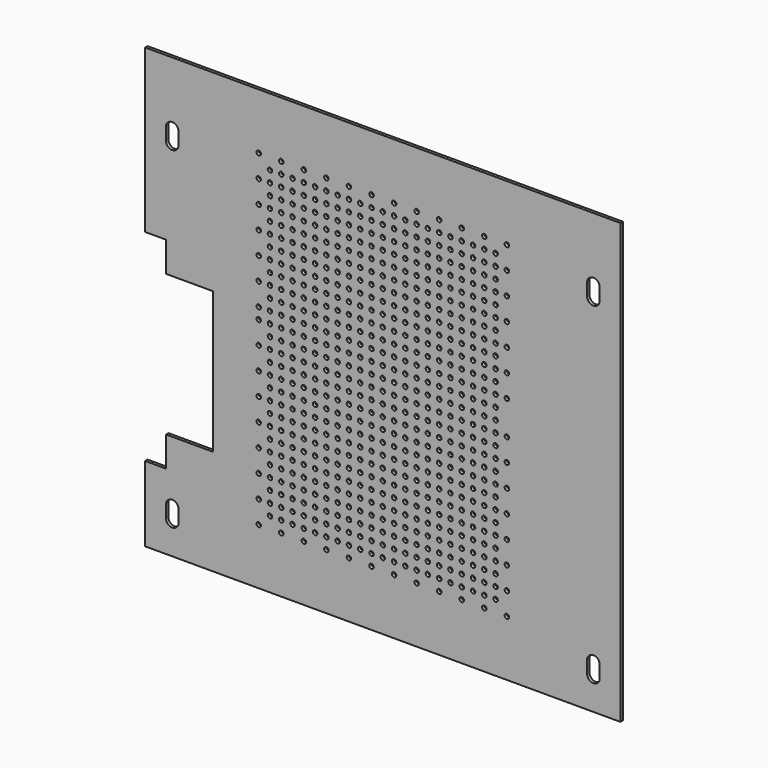
from build123d import *

# Parameters (mm, degrees)
F1_DEPTH = 2
F3_DEPTH = 2.001
F4_R     = 1.5
F5_DEPTH = 2.001


with BuildPart() as f1:
    # F0 (on Front) → F1 (new body)
    with BuildSketch(Plane.XZ):
        Polygon((158, -146), (158, 146), (-158, 146), (-158, 38), (-144, 38), (-144, 18), (-113, 18), (-113, -76), (-144, -76), (-144, -96), (-158, -96), (-158, -146), align=None)
    extrude(amount=F1_DEPTH)

    # F2 (on face) → F3 (cut, through all)
    with BuildSketch(Plane.XZ.offset(2)):
        with BuildLine():
            ThreePointArc((-135.8, 104), (-140, 108.2), (-144.2, 104))
            Line((-144.2, 104), (-144.2, 100))
            Line((-144.2, 100), (-144.2, 96))
            ThreePointArc((-144.2, 96), (-140, 91.8), (-135.8, 96))
            Line((-135.8, 96), (-135.8, 100))
            Line((-135.8, 100), (-135.8, 104))
        make_face()
        with BuildLine():
            Line((144.2, 96), (144.2, 100))
            Line((144.2, 100), (144.2, 104))
            ThreePointArc((144.2, 104), (140, 108.2), (135.8, 104))
            Line((135.8, 104), (135.8, 100))
            Line((135.8, 100), (135.8, 96))
            ThreePointArc((135.8, 96), (140, 91.8), (144.2, 96))
        make_face()
        with BuildLine():
            ThreePointArc((-144.2, -125), (-140, -129.2), (-135.8, -125))
            Line((-135.8, -125), (-135.8, -117))
            ThreePointArc((-135.8, -117), (-140, -112.8), (-144.2, -117))
            Line((-144.2, -117), (-144.2, -125))
        make_face()
        with BuildLine():
            Line((135.8, -117), (135.8, -125))
            ThreePointArc((135.8, -125), (140, -129.2), (144.2, -125))
            Line((144.2, -125), (144.2, -117))
            ThreePointArc((144.2, -117), (140, -112.8), (135.8, -117))
        make_face()
    extrude(amount=-F3_DEPTH, mode=Mode.SUBTRACT)

    # F4 (on face) → F5 (cut, through all)
    with BuildSketch(Plane.XZ.offset(2)):
        with BuildLine():
            ThreePointArc((0, 5.25), (-1.5, 3.75), (0, 2.25))
            Line((0, 2.25), (0, 5.25))
        make_face()
        with BuildLine():
            ThreePointArc((0, 20.25), (-1.5, 18.75), (0, 17.25))
            Line((0, 17.25), (0, 20.25))
        make_face()
        with BuildLine():
            Line((0, 20.25), (0, 17.25))
            ThreePointArc((0, 17.25), (1.06066, 17.68934), (1.5, 18.75))
            ThreePointArc((1.5, 18.75), (1.06066, 19.81066), (0, 20.25))
        make_face()
        with BuildLine():
            ThreePointArc((0, 12.75), (-1.5, 11.25), (0, 9.75))
            Line((0, 9.75), (0, 12.75))
        make_face()
        with BuildLine():
            Line((0, 12.75), (0, 9.75))
            ThreePointArc((0, 9.75), (1.06066, 10.18934), (1.5, 11.25))
            ThreePointArc((1.5, 11.25), (1.06066, 12.31066), (0, 12.75))
        make_face()
        with BuildLine():
            Line((0, 5.25), (0, 2.25))
            ThreePointArc((0, 2.25), (1.06066, 2.68934), (1.5, 3.75))
            ThreePointArc((1.5, 3.75), (1.06066, 4.81066), (0, 5.25))
        make_face()
        with BuildLine():
            ThreePointArc((0, 24.75), (1.06066, 25.18934), (1.5, 26.25))
            ThreePointArc((1.5, 26.25), (1.06066, 27.31066), (0, 27.75))
            Line((0, 27.75), (0, 24.75))
        make_face()
        with BuildLine():
            Line((0, 24.75), (0, 27.75))
            ThreePointArc((0, 27.75), (-1.5, 26.25), (0, 24.75))
        make_face()
        with BuildLine():
            ThreePointArc((0, 32.25), (1.06066, 32.68934), (1.5, 33.75))
            ThreePointArc((1.5, 33.75), (-1.06066, 34.81066), (0, 32.25))
        make_face()
        with BuildLine():
            Line((0, 42.75), (0, 39.75))
            ThreePointArc((0, 39.75), (1.06066, 40.18934), (1.5, 41.25))
            ThreePointArc((1.5, 41.25), (1.06066, 42.31066), (0, 42.75))
        make_face()
        with BuildLine():
            ThreePointArc((0, 50.25), (-1.5, 48.75), (0, 47.25))
            Line((0, 47.25), (0, 50.25))
        make_face()
        with BuildLine():
            Line((0, 50.25), (0, 47.25))
            ThreePointArc((0, 47.25), (1.06066, 47.68934), (1.5, 48.75))
            ThreePointArc((1.5, 48.75), (1.06066, 49.81066), (0, 50.25))
        make_face()
        with BuildLine():
            ThreePointArc((0, 42.75), (-1.5, 41.25), (0, 39.75))
            Line((0, 39.75), (0, 42.75))
        make_face()
        with BuildLine():
            ThreePointArc((0, 54.75), (1.06066, 55.18934), (1.5, 56.25))
            ThreePointArc((1.5, 56.25), (1.06066, 57.31066), (0, 57.75))
            Line((0, 57.75), (0, 54.75))
        make_face()
        with BuildLine():
            Line((0, 54.75), (0, 57.75))
            ThreePointArc((0, 57.75), (-1.5, 56.25), (0, 54.75))
        make_face()
        with BuildLine():
            ThreePointArc((0, 62.25), (1.06066, 62.68934), (1.5, 63.75))
            ThreePointArc((1.5, 63.75), (1.06066, 64.81066), (0, 65.25))
            Line((0, 65.25), (0, 62.25))
        make_face()
        with BuildLine():
            Line((0, 62.25), (0, 65.25))
            ThreePointArc((0, 65.25), (-1.5, 63.75), (0, 62.25))
        make_face()
        with BuildLine():
            ThreePointArc((0, 69.75), (1.06066, 70.18934), (1.5, 71.25))
            ThreePointArc((1.5, 71.25), (1.06066, 72.31066), (0, 72.75))
            Line((0, 72.75), (0, 69.75))
        make_face()
        with BuildLine():
            Line((0, 69.75), (0, 72.75))
            ThreePointArc((0, 72.75), (-1.5, 71.25), (0, 69.75))
        make_face()
        with BuildLine():
            ThreePointArc((0, 77.25), (1.06066, 77.68934), (1.5, 78.75))
            ThreePointArc((1.5, 78.75), (1.06066, 79.81066), (0, 80.25))
            Line((0, 80.25), (0, 77.25))
        make_face()
        with BuildLine():
            Line((0, 77.25), (0, 80.25))
            ThreePointArc((0, 80.25), (-1.5, 78.75), (0, 77.25))
        make_face()
        with BuildLine():
            ThreePointArc((0, 84.75), (1.06066, 85.18934), (1.5, 86.25))
            ThreePointArc((1.5, 86.25), (1.06066, 87.31066), (0, 87.75))
            Line((0, 87.75), (0, 84.75))
        make_face()
        with BuildLine():
            Line((0, 84.75), (0, 87.75))
            ThreePointArc((0, 87.75), (-1.5, 86.25), (0, 84.75))
        make_face()
        with BuildLine():
            ThreePointArc((0, 92.25), (1.06066, 92.68934), (1.5, 93.75))
            ThreePointArc((1.5, 93.75), (1.06066, 94.81066), (0, 95.25))
            Line((0, 95.25), (0, 92.25))
        make_face()
        with BuildLine():
            Line((0, 92.25), (0, 95.25))
            ThreePointArc((0, 95.25), (-1.5, 93.75), (0, 92.25))
        make_face()
        with BuildLine():
            ThreePointArc((0, 99.75), (1.06066, 100.18934), (1.5, 101.25))
            ThreePointArc((1.5, 101.25), (1.06066, 102.31066), (0, 102.75))
            Line((0, 102.75), (0, 99.75))
        make_face()
        with BuildLine():
            Line((0, 99.75), (0, 102.75))
            ThreePointArc((0, 102.75), (-1.5, 101.25), (0, 99.75))
        make_face()
        with Locations((7.5, 86.25)):
            Circle(F4_R)
        with Locations((7.5, 26.25)):
            Circle(F4_R)
        with Locations((7.5, 48.75)):
            Circle(F4_R)
        with Locations((7.5, 101.25)):
            Circle(F4_R)
        with Locations((7.5, 108.75)):
            Circle(F4_R)
        with Locations((7.5, 93.75)):
            Circle(F4_R)
        with Locations((7.5, 18.75)):
            Circle(F4_R)
        with Locations((7.5, 63.75)):
            Circle(F4_R)
        with Locations((7.5, 71.25)):
            Circle(F4_R)
        with Locations((7.5, 56.25)):
            Circle(F4_R)
        with Locations((7.5, 41.25)):
            Circle(F4_R)
        with Locations((7.5, 33.75)):
            Circle(F4_R)
        with Locations((7.5, 78.75)):
            Circle(F4_R)
        with Locations((7.5, 11.25)):
            Circle(F4_R)
        with Locations((7.5, 3.75)):
            Circle(F4_R)
        with Locations((15, 86.25)):
            Circle(F4_R)
        with Locations((15, 26.25)):
            Circle(F4_R)
        with Locations((15, 48.75)):
            Circle(F4_R)
        with Locations((15, 101.25)):
            Circle(F4_R)
        with Locations((15, 93.75)):
            Circle(F4_R)
        with Locations((15, 18.75)):
            Circle(F4_R)
        with Locations((15, 63.75)):
            Circle(F4_R)
        with Locations((15, 71.25)):
            Circle(F4_R)
        with Locations((15, 56.25)):
            Circle(F4_R)
        with Locations((15, 41.25)):
            Circle(F4_R)
        with Locations((15, 33.75)):
            Circle(F4_R)
        with Locations((15, 78.75)):
            Circle(F4_R)
        with Locations((15, 11.25)):
            Circle(F4_R)
        with Locations((15, 3.75)):
            Circle(F4_R)
        with Locations((22.5, 86.25)):
            Circle(F4_R)
        with Locations((22.5, 26.25)):
            Circle(F4_R)
        with Locations((22.5, 48.75)):
            Circle(F4_R)
        with Locations((22.5, 101.25)):
            Circle(F4_R)
        with Locations((22.5, 108.75)):
            Circle(F4_R)
        with Locations((22.5, 93.75)):
            Circle(F4_R)
        with Locations((22.5, 18.75)):
            Circle(F4_R)
        with Locations((22.5, 63.75)):
            Circle(F4_R)
        with Locations((22.5, 71.25)):
            Circle(F4_R)
        with Locations((22.5, 56.25)):
            Circle(F4_R)
        with Locations((22.5, 41.25)):
            Circle(F4_R)
        with Locations((22.5, 33.75)):
            Circle(F4_R)
        with Locations((22.5, 78.75)):
            Circle(F4_R)
        with Locations((22.5, 11.25)):
            Circle(F4_R)
        with Locations((22.5, 3.75)):
            Circle(F4_R)
        with Locations((30, 86.25)):
            Circle(F4_R)
        with Locations((30, 26.25)):
            Circle(F4_R)
        with Locations((30, 48.75)):
            Circle(F4_R)
        with Locations((30, 101.25)):
            Circle(F4_R)
        with Locations((30, 93.75)):
            Circle(F4_R)
        with Locations((30, 18.75)):
            Circle(F4_R)
        with Locations((30, 63.75)):
            Circle(F4_R)
        with Locations((30, 71.25)):
            Circle(F4_R)
        with Locations((30, 56.25)):
            Circle(F4_R)
        with Locations((30, 41.25)):
            Circle(F4_R)
        with Locations((30, 33.75)):
            Circle(F4_R)
        with Locations((30, 78.75)):
            Circle(F4_R)
        with Locations((30, 11.25)):
            Circle(F4_R)
        with Locations((30, 3.75)):
            Circle(F4_R)
        with Locations((37.5, 86.25)):
            Circle(F4_R)
        with Locations((37.5, 26.25)):
            Circle(F4_R)
        with Locations((37.5, 48.75)):
            Circle(F4_R)
        with Locations((37.5, 101.25)):
            Circle(F4_R)
        with Locations((37.5, 108.75)):
            Circle(F4_R)
        with Locations((37.5, 93.75)):
            Circle(F4_R)
        with Locations((37.5, 18.75)):
            Circle(F4_R)
        with Locations((37.5, 63.75)):
            Circle(F4_R)
        with Locations((37.5, 71.25)):
            Circle(F4_R)
        with Locations((37.5, 56.25)):
            Circle(F4_R)
        with Locations((37.5, 41.25)):
            Circle(F4_R)
        with Locations((37.5, 33.75)):
            Circle(F4_R)
        with Locations((37.5, 78.75)):
            Circle(F4_R)
        with Locations((37.5, 11.25)):
            Circle(F4_R)
        with Locations((37.5, 3.75)):
            Circle(F4_R)
        with Locations((45, 86.25)):
            Circle(F4_R)
        with Locations((45, 26.25)):
            Circle(F4_R)
        with Locations((45, 48.75)):
            Circle(F4_R)
        with Locations((45, 101.25)):
            Circle(F4_R)
        with Locations((45, 93.75)):
            Circle(F4_R)
        with Locations((45, 18.75)):
            Circle(F4_R)
        with Locations((45, 63.75)):
            Circle(F4_R)
        with Locations((45, 71.25)):
            Circle(F4_R)
        with Locations((45, 56.25)):
            Circle(F4_R)
        with Locations((45, 41.25)):
            Circle(F4_R)
        with Locations((45, 33.75)):
            Circle(F4_R)
        with Locations((45, 78.75)):
            Circle(F4_R)
        with Locations((45, 11.25)):
            Circle(F4_R)
        with Locations((45, 3.75)):
            Circle(F4_R)
        with Locations((52.5, 86.25)):
            Circle(F4_R)
        with Locations((52.5, 26.25)):
            Circle(F4_R)
        with Locations((52.5, 48.75)):
            Circle(F4_R)
        with Locations((52.5, 101.25)):
            Circle(F4_R)
        with Locations((52.5, 108.75)):
            Circle(F4_R)
        with Locations((52.5, 93.75)):
            Circle(F4_R)
        with Locations((52.5, 18.75)):
            Circle(F4_R)
        with Locations((52.5, 63.75)):
            Circle(F4_R)
        with Locations((52.5, 71.25)):
            Circle(F4_R)
        with Locations((52.5, 56.25)):
            Circle(F4_R)
        with Locations((52.5, 41.25)):
            Circle(F4_R)
        with Locations((52.5, 33.75)):
            Circle(F4_R)
        with Locations((52.5, 78.75)):
            Circle(F4_R)
        with Locations((52.5, 11.25)):
            Circle(F4_R)
        with Locations((52.5, 3.75)):
            Circle(F4_R)
        with Locations((60, 86.25)):
            Circle(F4_R)
        with Locations((60, 26.25)):
            Circle(F4_R)
        with Locations((60, 48.75)):
            Circle(F4_R)
        with Locations((60, 101.25)):
            Circle(F4_R)
        with Locations((60, 93.75)):
            Circle(F4_R)
        with Locations((60, 18.75)):
            Circle(F4_R)
        with Locations((60, 63.75)):
            Circle(F4_R)
        with Locations((60, 71.25)):
            Circle(F4_R)
        with Locations((60, 56.25)):
            Circle(F4_R)
        with Locations((60, 41.25)):
            Circle(F4_R)
        with Locations((60, 33.75)):
            Circle(F4_R)
        with Locations((60, 78.75)):
            Circle(F4_R)
        with Locations((60, 11.25)):
            Circle(F4_R)
        with Locations((60, 3.75)):
            Circle(F4_R)
        with Locations((67.5, 86.25)):
            Circle(F4_R)
        with Locations((67.5, 26.25)):
            Circle(F4_R)
        with Locations((67.5, 48.75)):
            Circle(F4_R)
        with Locations((67.5, 101.25)):
            Circle(F4_R)
        with Locations((67.5, 108.75)):
            Circle(F4_R)
        with Locations((67.5, 93.75)):
            Circle(F4_R)
        with Locations((67.5, 18.75)):
            Circle(F4_R)
        with Locations((67.5, 63.75)):
            Circle(F4_R)
        with Locations((67.5, 71.25)):
            Circle(F4_R)
        with Locations((67.5, 56.25)):
            Circle(F4_R)
        with Locations((67.5, 41.25)):
            Circle(F4_R)
        with Locations((67.5, 33.75)):
            Circle(F4_R)
        with Locations((67.5, 78.75)):
            Circle(F4_R)
        with Locations((67.5, 11.25)):
            Circle(F4_R)
        with Locations((67.5, 3.75)):
            Circle(F4_R)
        with Locations((75, 86.25)):
            Circle(F4_R)
        with Locations((75, 26.25)):
            Circle(F4_R)
        with Locations((75, 48.75)):
            Circle(F4_R)
        with Locations((75, 101.25)):
            Circle(F4_R)
        with Locations((75, 93.75)):
            Circle(F4_R)
        with Locations((75, 18.75)):
            Circle(F4_R)
        with Locations((75, 63.75)):
            Circle(F4_R)
        with Locations((75, 71.25)):
            Circle(F4_R)
        with Locations((75, 56.25)):
            Circle(F4_R)
        with Locations((75, 41.25)):
            Circle(F4_R)
        with Locations((75, 33.75)):
            Circle(F4_R)
        with Locations((75, 78.75)):
            Circle(F4_R)
        with Locations((75, 11.25)):
            Circle(F4_R)
        with Locations((75, 3.75)):
            Circle(F4_R)
        with Locations((82.5, 48.75)):
            Circle(F4_R)
        with Locations((82.5, 108.75)):
            Circle(F4_R)
        with Locations((82.5, 93.75)):
            Circle(F4_R)
        with Locations((82.5, 18.75)):
            Circle(F4_R)
        with Locations((82.5, 63.75)):
            Circle(F4_R)
        with Locations((82.5, 33.75)):
            Circle(F4_R)
        with Locations((82.5, 78.75)):
            Circle(F4_R)
        with Locations((-7.5, 3.75)):
            Circle(F4_R)
        with Locations((-15, 3.75)):
            Circle(F4_R)
        with Locations((-7.5, 11.25)):
            Circle(F4_R)
        with Locations((-22.5, 3.75)):
            Circle(F4_R)
        with Locations((-67.5, 3.75)):
            Circle(F4_R)
        with Locations((-60, 11.25)):
            Circle(F4_R)
        with Locations((-15, 11.25)):
            Circle(F4_R)
        with Locations((-75, 11.25)):
            Circle(F4_R)
        with Locations((-45, 3.75)):
            Circle(F4_R)
        with Locations((-30, 3.75)):
            Circle(F4_R)
        with Locations((-82.5, 11.25)):
            Circle(F4_R)
        with Locations((-75, 3.75)):
            Circle(F4_R)
        with Locations((-22.5, 11.25)):
            Circle(F4_R)
        with Locations((-45, 11.25)):
            Circle(F4_R)
        with Locations((-60, 3.75)):
            Circle(F4_R)
        with Locations((-37.5, 3.75)):
            Circle(F4_R)
        with Locations((-67.5, 11.25)):
            Circle(F4_R)
        with Locations((-30, 11.25)):
            Circle(F4_R)
        with Locations((-52.5, 3.75)):
            Circle(F4_R)
        with Locations((-37.5, 11.25)):
            Circle(F4_R)
        with Locations((-52.5, 11.25)):
            Circle(F4_R)
        with Locations((-30, 86.25)):
            Circle(F4_R)
        with Locations((-52.5, 48.75)):
            Circle(F4_R)
        with Locations((-7.5, 78.75)):
            Circle(F4_R)
        with Locations((-60, 101.25)):
            Circle(F4_R)
        with Locations((-45, 26.25)):
            Circle(F4_R)
        with Locations((-37.5, 86.25)):
            Circle(F4_R)
        with Locations((-82.5, 18.75)):
            Circle(F4_R)
        with Locations((-75, 93.75)):
            Circle(F4_R)
        with Locations((-67.5, 108.75)):
            Circle(F4_R)
        with Locations((-52.5, 101.25)):
            Circle(F4_R)
        with Locations((-45, 48.75)):
            Circle(F4_R)
        with Locations((-37.5, 26.25)):
            Circle(F4_R)
        with Locations((-82.5, 63.75)):
            Circle(F4_R)
        with Locations((-75, 18.75)):
            Circle(F4_R)
        with Locations((-67.5, 93.75)):
            Circle(F4_R)
        with Locations((-30, 26.25)):
            Circle(F4_R)
        with Locations((-22.5, 86.25)):
            Circle(F4_R)
        with Locations((-60, 93.75)):
            Circle(F4_R)
        with Locations((-52.5, 108.75)):
            Circle(F4_R)
        with Locations((-45, 101.25)):
            Circle(F4_R)
        with Locations((-37.5, 48.75)):
            Circle(F4_R)
        with Locations((-75, 63.75)):
            Circle(F4_R)
        with Locations((-67.5, 18.75)):
            Circle(F4_R)
        with Locations((-30, 48.75)):
            Circle(F4_R)
        with Locations((-22.5, 26.25)):
            Circle(F4_R)
        with Locations((-15, 86.25)):
            Circle(F4_R)
        with Locations((-60, 18.75)):
            Circle(F4_R)
        with Locations((-52.5, 93.75)):
            Circle(F4_R)
        with Locations((-37.5, 101.25)):
            Circle(F4_R)
        with Locations((-75, 71.25)):
            Circle(F4_R)
        with Locations((-67.5, 63.75)):
            Circle(F4_R)
        with Locations((-30, 101.25)):
            Circle(F4_R)
        with Locations((-22.5, 48.75)):
            Circle(F4_R)
        with Locations((-15, 26.25)):
            Circle(F4_R)
        with Locations((-7.5, 86.25)):
            Circle(F4_R)
        with Locations((-60, 63.75)):
            Circle(F4_R)
        with Locations((-52.5, 18.75)):
            Circle(F4_R)
        with Locations((-45, 93.75)):
            Circle(F4_R)
        with Locations((-37.5, 108.75)):
            Circle(F4_R)
        with Locations((-75, 56.25)):
            Circle(F4_R)
        with Locations((-67.5, 71.25)):
            Circle(F4_R)
        with Locations((-22.5, 101.25)):
            Circle(F4_R)
        with Locations((-15, 48.75)):
            Circle(F4_R)
        with Locations((-7.5, 26.25)):
            Circle(F4_R)
        with Locations((-60, 71.25)):
            Circle(F4_R)
        with Locations((-52.5, 63.75)):
            Circle(F4_R)
        with Locations((-45, 18.75)):
            Circle(F4_R)
        with Locations((-37.5, 93.75)):
            Circle(F4_R)
        with Locations((-82.5, 33.75)):
            Circle(F4_R)
        with Locations((-75, 41.25)):
            Circle(F4_R)
        with Locations((-67.5, 56.25)):
            Circle(F4_R)
        with Locations((-7.5, 18.75)):
            Circle(F4_R)
        with Locations((-37.5, 41.25)):
            Circle(F4_R)
        with Locations((-30, 56.25)):
            Circle(F4_R)
        with Locations((-22.5, 71.25)):
            Circle(F4_R)
        with Locations((-15, 63.75)):
            Circle(F4_R)
        with Locations((-52.5, 78.75)):
            Circle(F4_R)
        with Locations((-45, 33.75)):
            Circle(F4_R)
        with Locations((-30, 93.75)):
            Circle(F4_R)
        with Locations((-22.5, 108.75)):
            Circle(F4_R)
        with Locations((-15, 101.25)):
            Circle(F4_R)
        with Locations((-7.5, 48.75)):
            Circle(F4_R)
        with Locations((-60, 56.25)):
            Circle(F4_R)
        with Locations((-52.5, 71.25)):
            Circle(F4_R)
        with Locations((-45, 63.75)):
            Circle(F4_R)
        with Locations((-37.5, 18.75)):
            Circle(F4_R)
        with Locations((-82.5, 78.75)):
            Circle(F4_R)
        with Locations((-75, 33.75)):
            Circle(F4_R)
        with Locations((-67.5, 41.25)):
            Circle(F4_R)
        with Locations((-7.5, 108.75)):
            Circle(F4_R)
        with Locations((-37.5, 71.25)):
            Circle(F4_R)
        with Locations((-30, 63.75)):
            Circle(F4_R)
        with Locations((-22.5, 18.75)):
            Circle(F4_R)
        with Locations((-15, 93.75)):
            Circle(F4_R)
        with Locations((-67.5, 78.75)):
            Circle(F4_R)
        with Locations((-60, 33.75)):
            Circle(F4_R)
        with Locations((-52.5, 41.25)):
            Circle(F4_R)
        with Locations((-45, 56.25)):
            Circle(F4_R)
        with Locations((-60, 86.25)):
            Circle(F4_R)
        with Locations((-82.5, 108.75)):
            Circle(F4_R)
        with Locations((-7.5, 56.25)):
            Circle(F4_R)
        with Locations((-75, 78.75)):
            Circle(F4_R)
        with Locations((-37.5, 63.75)):
            Circle(F4_R)
        with Locations((-52.5, 56.25)):
            Circle(F4_R)
        with Locations((-7.5, 101.25)):
            Circle(F4_R)
        with Locations((-15, 78.75)):
            Circle(F4_R)
        with Locations((-60, 41.25)):
            Circle(F4_R)
        with Locations((-22.5, 56.25)):
            Circle(F4_R)
        with Locations((-52.5, 33.75)):
            Circle(F4_R)
        with Locations((-30, 41.25)):
            Circle(F4_R)
        with Locations((-67.5, 48.75)):
            Circle(F4_R)
        with Locations((-30, 18.75)):
            Circle(F4_R)
        with Locations((-45, 78.75)):
            Circle(F4_R)
        with Locations((-45, 41.25)):
            Circle(F4_R)
        with Locations((-67.5, 26.25)):
            Circle(F4_R)
        with Locations((-82.5, 48.75)):
            Circle(F4_R)
        with Locations((-22.5, 63.75)):
            Circle(F4_R)
        with Locations((-67.5, 86.25)):
            Circle(F4_R)
        with Locations((-15, 18.75)):
            Circle(F4_R)
        with Locations((-22.5, 93.75)):
            Circle(F4_R)
        with Locations((-37.5, 78.75)):
            Circle(F4_R)
        with Locations((-22.5, 78.75)):
            Circle(F4_R)
        with Locations((-30, 33.75)):
            Circle(F4_R)
        with Locations((-15, 71.25)):
            Circle(F4_R)
        with Locations((-75, 86.25)):
            Circle(F4_R)
        with Locations((-75, 26.25)):
            Circle(F4_R)
        with Locations((-7.5, 33.75)):
            Circle(F4_R)
        with Locations((-45, 86.25)):
            Circle(F4_R)
        with Locations((-15, 56.25)):
            Circle(F4_R)
        with Locations((-60, 48.75)):
            Circle(F4_R)
        with Locations((-52.5, 26.25)):
            Circle(F4_R)
        with Locations((-60, 78.75)):
            Circle(F4_R)
        with Locations((-15, 33.75)):
            Circle(F4_R)
        with Locations((-67.5, 33.75)):
            Circle(F4_R)
        with Locations((-15, 41.25)):
            Circle(F4_R)
        with Locations((-30, 78.75)):
            Circle(F4_R)
        with Locations((-67.5, 101.25)):
            Circle(F4_R)
        with Locations((-7.5, 71.25)):
            Circle(F4_R)
        with Locations((-37.5, 33.75)):
            Circle(F4_R)
        with Locations((-7.5, 41.25)):
            Circle(F4_R)
        with Locations((-45, 71.25)):
            Circle(F4_R)
        with Locations((-22.5, 41.25)):
            Circle(F4_R)
        with Locations((-22.5, 33.75)):
            Circle(F4_R)
        with Locations((-37.5, 56.25)):
            Circle(F4_R)
        with Locations((-30, 71.25)):
            Circle(F4_R)
        with Locations((-52.5, 86.25)):
            Circle(F4_R)
        with Locations((-7.5, 93.75)):
            Circle(F4_R)
        with Locations((-7.5, 63.75)):
            Circle(F4_R)
        with Locations((-75, 101.25)):
            Circle(F4_R)
        with Locations((-75, 48.75)):
            Circle(F4_R)
        with Locations((-60, 26.25)):
            Circle(F4_R)
        with Locations((-82.5, 93.75)):
            Circle(F4_R)
        with BuildLine():
            ThreePointArc((1.5, -78.75), (1.06066, -77.68934), (0, -77.25))
            Line((0, -77.25), (0, -80.25))
            ThreePointArc((0, -80.25), (1.06066, -79.81066), (1.5, -78.75))
        make_face()
        with BuildLine():
            Line((0, -80.25), (0, -77.25))
            ThreePointArc((0, -77.25), (-1.5, -78.75), (0, -80.25))
        make_face()
        with BuildLine():
            ThreePointArc((1.5, -26.25), (1.06066, -25.18934), (0, -24.75))
            Line((0, -24.75), (0, -27.75))
            ThreePointArc((0, -27.75), (1.06066, -27.31066), (1.5, -26.25))
        make_face()
        with BuildLine():
            Line((0, -27.75), (0, -24.75))
            ThreePointArc((0, -24.75), (-1.5, -26.25), (0, -27.75))
        make_face()
        with BuildLine():
            ThreePointArc((1.5, -56.25), (1.06066, -55.18934), (0, -54.75))
            Line((0, -54.75), (0, -57.75))
            ThreePointArc((0, -57.75), (1.06066, -57.31066), (1.5, -56.25))
        make_face()
        with BuildLine():
            Line((0, -57.75), (0, -54.75))
            ThreePointArc((0, -54.75), (-1.5, -56.25), (0, -57.75))
        make_face()
        with Locations((0, -3.75)):
            Circle(F4_R)
        with BuildLine():
            ThreePointArc((1.5, -101.25), (1.06066, -100.18934), (0, -99.75))
            Line((0, -99.75), (0, -102.75))
            ThreePointArc((0, -102.75), (1.06066, -102.31066), (1.5, -101.25))
        make_face()
        with BuildLine():
            Line((0, -102.75), (0, -99.75))
            ThreePointArc((0, -99.75), (-1.5, -101.25), (0, -102.75))
        make_face()
        with BuildLine():
            ThreePointArc((1.5, -86.25), (1.06066, -85.18934), (0, -84.75))
            Line((0, -84.75), (0, -87.75))
            ThreePointArc((0, -87.75), (1.06066, -87.31066), (1.5, -86.25))
        make_face()
        with BuildLine():
            Line((0, -87.75), (0, -84.75))
            ThreePointArc((0, -84.75), (-1.5, -86.25), (0, -87.75))
        make_face()
        with Locations((7.5, -3.75)):
            Circle(F4_R)
        with BuildLine():
            ThreePointArc((0, -32.25), (-1.06066, -34.81066), (1.5, -33.75))
            ThreePointArc((1.5, -33.75), (1.06066, -32.68934), (0, -32.25))
        make_face()
        with BuildLine():
            ThreePointArc((1.5, -71.25), (1.06066, -70.18934), (0, -69.75))
            Line((0, -69.75), (0, -72.75))
            ThreePointArc((0, -72.75), (1.06066, -72.31066), (1.5, -71.25))
        make_face()
        with BuildLine():
            Line((0, -72.75), (0, -69.75))
            ThreePointArc((0, -69.75), (-1.5, -71.25), (0, -72.75))
        make_face()
        with Locations((52.5, -11.25)):
            Circle(F4_R)
        with Locations((45, -11.25)):
            Circle(F4_R)
        with Locations((75, -3.75)):
            Circle(F4_R)
        with Locations((-67.5, -3.75)):
            Circle(F4_R)
        with Locations((67.5, -11.25)):
            Circle(F4_R)
        with Locations((-75, -11.25)):
            Circle(F4_R)
        with Locations((60, -3.75)):
            Circle(F4_R)
        with Locations((67.5, -3.75)):
            Circle(F4_R)
        with Locations((-15, -3.75)):
            Circle(F4_R)
        with Locations((15, -11.25)):
            Circle(F4_R)
        with BuildLine():
            ThreePointArc((0, -65.25), (1.06066, -64.81066), (1.5, -63.75))
            ThreePointArc((1.5, -63.75), (1.06066, -62.68934), (0, -62.25))
            Line((0, -62.25), (0, -65.25))
        make_face()
        with BuildLine():
            Line((0, -65.25), (0, -62.25))
            ThreePointArc((0, -62.25), (-1.5, -63.75), (0, -65.25))
        make_face()
        with Locations((-60, -3.75)):
            Circle(F4_R)
        with Locations((7.5, -11.25)):
            Circle(F4_R)
        with Locations((15, -3.75)):
            Circle(F4_R)
        with Locations((-37.5, -3.75)):
            Circle(F4_R)
        with BuildLine():
            ThreePointArc((1.5, -93.75), (1.06066, -92.68934), (0, -92.25))
            Line((0, -92.25), (0, -95.25))
            ThreePointArc((0, -95.25), (1.06066, -94.81066), (1.5, -93.75))
        make_face()
        with BuildLine():
            Line((0, -95.25), (0, -92.25))
            ThreePointArc((0, -92.25), (-1.5, -93.75), (0, -95.25))
        make_face()
        with Locations((-67.5, -11.25)):
            Circle(F4_R)
        with Locations((37.5, -11.25)):
            Circle(F4_R)
        with Locations((-45, -11.25)):
            Circle(F4_R)
        with Locations((-82.5, -3.75)):
            Circle(F4_R)
        with Locations((-30, -11.25)):
            Circle(F4_R)
        with Locations((82.5, -3.75)):
            Circle(F4_R)
        with Locations((30, -11.25)):
            Circle(F4_R)
        with Locations((-22.5, -11.25)):
            Circle(F4_R)
        with Locations((-37.5, -11.25)):
            Circle(F4_R)
        with Locations((22.5, -3.75)):
            Circle(F4_R)
        with Locations((-75, -3.75)):
            Circle(F4_R)
        with Locations((-7.5, -3.75)):
            Circle(F4_R)
        with Locations((-15, -11.25)):
            Circle(F4_R)
        with Locations((45, -3.75)):
            Circle(F4_R)
        with BuildLine():
            Line((0, -47.25), (0, -50.25))
            ThreePointArc((0, -50.25), (1.06066, -49.81066), (1.5, -48.75))
            ThreePointArc((1.5, -48.75), (1.06066, -47.68934), (0, -47.25))
        make_face()
        with BuildLine():
            ThreePointArc((0, -39.75), (-1.5, -41.25), (0, -42.75))
            Line((0, -42.75), (0, -39.75))
        make_face()
        with BuildLine():
            Line((0, -39.75), (0, -42.75))
            ThreePointArc((0, -42.75), (1.06066, -42.31066), (1.5, -41.25))
            ThreePointArc((1.5, -41.25), (1.06066, -40.18934), (0, -39.75))
        make_face()
        with BuildLine():
            ThreePointArc((0, -47.25), (-1.5, -48.75), (0, -50.25))
            Line((0, -50.25), (0, -47.25))
        make_face()
        with Locations((-22.5, -3.75)):
            Circle(F4_R)
        with Locations((-52.5, -3.75)):
            Circle(F4_R)
        with Locations((60, -11.25)):
            Circle(F4_R)
        with Locations((-45, -3.75)):
            Circle(F4_R)
        with Locations((22.5, -11.25)):
            Circle(F4_R)
        with Locations((-60, -11.25)):
            Circle(F4_R)
        with Locations((0, -11.25)):
            Circle(F4_R)
        with Locations((-30, -3.75)):
            Circle(F4_R)
        with Locations((-52.5, -11.25)):
            Circle(F4_R)
        with Locations((-7.5, -11.25)):
            Circle(F4_R)
        with Locations((52.5, -3.75)):
            Circle(F4_R)
        with Locations((37.5, -3.75)):
            Circle(F4_R)
        with Locations((75, -11.25)):
            Circle(F4_R)
        with Locations((30, -3.75)):
            Circle(F4_R)
        with Locations((-30, -101.25)):
            Circle(F4_R)
        with Locations((60, -71.25)):
            Circle(F4_R)
        with Locations((-45, -26.25)):
            Circle(F4_R)
        with Locations((-37.5, -33.75)):
            Circle(F4_R)
        with Locations((-45, -86.25)):
            Circle(F4_R)
        with Locations((-30, -41.25)):
            Circle(F4_R)
        with Locations((-60, -93.75)):
            Circle(F4_R)
        with Locations((82.5, -93.75)):
            Circle(F4_R)
        with Locations((45, -93.75)):
            Circle(F4_R)
        with Locations((37.5, -71.25)):
            Circle(F4_R)
        with Locations((75, -26.25)):
            Circle(F4_R)
        with Locations((-45, -71.25)):
            Circle(F4_R)
        with Locations((-52.5, -101.25)):
            Circle(F4_R)
        with Locations((60, -26.25)):
            Circle(F4_R)
        with Locations((-75, -48.75)):
            Circle(F4_R)
        with Locations((-15, -101.25)):
            Circle(F4_R)
        with Locations((-82.5, -63.75)):
            Circle(F4_R)
        with Locations((-60, -33.75)):
            Circle(F4_R)
        with Locations((-22.5, -108.75)):
            Circle(F4_R)
        with Locations((-30, -18.75)):
            Circle(F4_R)
        with Locations((75, -63.75)):
            Circle(F4_R)
        with Locations((15, -48.75)):
            Circle(F4_R)
        with Locations((-15, -33.75)):
            Circle(F4_R)
        with Locations((-37.5, -18.75)):
            Circle(F4_R)
        with Locations((67.5, -48.75)):
            Circle(F4_R)
        with Locations((37.5, -48.75)):
            Circle(F4_R)
        with Locations((52.5, -26.25)):
            Circle(F4_R)
        with Locations((82.5, -108.75)):
            Circle(F4_R)
        with Locations((60, -93.75)):
            Circle(F4_R)
        with Locations((-30, -26.25)):
            Circle(F4_R)
        with Locations((-7.5, -26.25)):
            Circle(F4_R)
        with Locations((-75, -41.25)):
            Circle(F4_R)
        with Locations((-37.5, -41.25)):
            Circle(F4_R)
        with Locations((-22.5, -18.75)):
            Circle(F4_R)
        with Locations((22.5, -63.75)):
            Circle(F4_R)
        with Locations((60, -78.75)):
            Circle(F4_R)
        with Locations((-30, -86.25)):
            Circle(F4_R)
        with Locations((-15, -63.75)):
            Circle(F4_R)
        with Locations((-82.5, -48.75)):
            Circle(F4_R)
        with Locations((67.5, -56.25)):
            Circle(F4_R)
        with Locations((-37.5, -86.25)):
            Circle(F4_R)
        with Locations((52.5, -48.75)):
            Circle(F4_R)
        with Locations((45, -56.25)):
            Circle(F4_R)
        with Locations((-52.5, -63.75)):
            Circle(F4_R)
        with Locations((-60, -56.25)):
            Circle(F4_R)
        with Locations((-67.5, -71.25)):
            Circle(F4_R)
        with Locations((37.5, -18.75)):
            Circle(F4_R)
        with Locations((75, -93.75)):
            Circle(F4_R)
        with Locations((-67.5, -33.75)):
            Circle(F4_R)
        with Locations((-22.5, -93.75)):
            Circle(F4_R)
        with Locations((-22.5, -26.25)):
            Circle(F4_R)
        with Locations((-30, -56.25)):
            Circle(F4_R)
        with Locations((75, -71.25)):
            Circle(F4_R)
        with Locations((-60, -86.25)):
            Circle(F4_R)
        with Locations((45, -63.75)):
            Circle(F4_R)
        with Locations((30, -41.25)):
            Circle(F4_R)
        with Locations((37.5, -63.75)):
            Circle(F4_R)
        with Locations((-52.5, -18.75)):
            Circle(F4_R)
        with Locations((-22.5, -78.75)):
            Circle(F4_R)
        with Locations((52.5, -33.75)):
            Circle(F4_R)
        with Locations((-67.5, -86.25)):
            Circle(F4_R)
        with Locations((-52.5, -26.25)):
            Circle(F4_R)
        with Locations((-22.5, -56.25)):
            Circle(F4_R)
        with Locations((60, -41.25)):
            Circle(F4_R)
        with Locations((60, -63.75)):
            Circle(F4_R)
        with Locations((30, -86.25)):
            Circle(F4_R)
        with Locations((-7.5, -56.25)):
            Circle(F4_R)
        with Locations((22.5, -101.25)):
            Circle(F4_R)
        with Locations((30, -56.25)):
            Circle(F4_R)
        with Locations((67.5, -101.25)):
            Circle(F4_R)
        with Locations((-67.5, -18.75)):
            Circle(F4_R)
        with Locations((-60, -101.25)):
            Circle(F4_R)
        with Locations((52.5, -71.25)):
            Circle(F4_R)
        with Locations((-45, -48.75)):
            Circle(F4_R)
        with Locations((45, -48.75)):
            Circle(F4_R)
        with Locations((-67.5, -48.75)):
            Circle(F4_R)
        with Locations((-45, -41.25)):
            Circle(F4_R)
        with Locations((-52.5, -56.25)):
            Circle(F4_R)
        with Locations((-15, -48.75)):
            Circle(F4_R)
        with Locations((-82.5, -108.75)):
            Circle(F4_R)
        with Locations((-67.5, -56.25)):
            Circle(F4_R)
        with Locations((15, -33.75)):
            Circle(F4_R)
        with Locations((-45, -33.75)):
            Circle(F4_R)
        with Locations((-52.5, -33.75)):
            Circle(F4_R)
        with Locations((22.5, -108.75)):
            Circle(F4_R)
        with Locations((37.5, -26.25)):
            Circle(F4_R)
        with Locations((45, -101.25)):
            Circle(F4_R)
        with Locations((67.5, -71.25)):
            Circle(F4_R)
        with Locations((45, -41.25)):
            Circle(F4_R)
        with Locations((67.5, -26.25)):
            Circle(F4_R)
        with Locations((-7.5, -86.25)):
            Circle(F4_R)
        with Locations((7.5, -33.75)):
            Circle(F4_R)
        with Locations((-37.5, -101.25)):
            Circle(F4_R)
        with Locations((-52.5, -108.75)):
            Circle(F4_R)
        with Locations((60, -33.75)):
            Circle(F4_R)
        with Locations((30, -33.75)):
            Circle(F4_R)
        with Locations((7.5, -108.75)):
            Circle(F4_R)
        with Locations((75, -33.75)):
            Circle(F4_R)
        with Locations((-82.5, -18.75)):
            Circle(F4_R)
        with Locations((52.5, -18.75)):
            Circle(F4_R)
        with Locations((15, -26.25)):
            Circle(F4_R)
        with Locations((52.5, -93.75)):
            Circle(F4_R)
        with Locations((22.5, -56.25)):
            Circle(F4_R)
        with Locations((-15, -18.75)):
            Circle(F4_R)
        with Locations((-67.5, -101.25)):
            Circle(F4_R)
        with Locations((75, -56.25)):
            Circle(F4_R)
        with Locations((52.5, -86.25)):
            Circle(F4_R)
        with Locations((37.5, -101.25)):
            Circle(F4_R)
        with Locations((67.5, -108.75)):
            Circle(F4_R)
        with Locations((-52.5, -71.25)):
            Circle(F4_R)
        with Locations((-60, -71.25)):
            Circle(F4_R)
        with Locations((-7.5, -71.25)):
            Circle(F4_R)
        with Locations((22.5, -26.25)):
            Circle(F4_R)
        with Locations((45, -71.25)):
            Circle(F4_R)
        with Locations((67.5, -33.75)):
            Circle(F4_R)
        with Locations((45, -78.75)):
            Circle(F4_R)
        with Locations((45, -33.75)):
            Circle(F4_R)
        with Locations((37.5, -56.25)):
            Circle(F4_R)
        with Locations((52.5, -78.75)):
            Circle(F4_R)
        with Locations((60, -86.25)):
            Circle(F4_R)
        with Locations((75, -86.25)):
            Circle(F4_R)
        with Locations((75, -101.25)):
            Circle(F4_R)
        with Locations((75, -41.25)):
            Circle(F4_R)
        with Locations((-22.5, -48.75)):
            Circle(F4_R)
        with Locations((52.5, -41.25)):
            Circle(F4_R)
        with Locations((-30, -71.25)):
            Circle(F4_R)
        with Locations((15, -93.75)):
            Circle(F4_R)
        with Locations((-75, -78.75)):
            Circle(F4_R)
        with Locations((15, -56.25)):
            Circle(F4_R)
        with Locations((-67.5, -41.25)):
            Circle(F4_R)
        with Locations((-7.5, -41.25)):
            Circle(F4_R)
        with Locations((45, -18.75)):
            Circle(F4_R)
        with Locations((-7.5, -93.75)):
            Circle(F4_R)
        with Locations((30, -18.75)):
            Circle(F4_R)
        with Locations((15, -18.75)):
            Circle(F4_R)
        with Locations((-37.5, -56.25)):
            Circle(F4_R)
        with Locations((-67.5, -78.75)):
            Circle(F4_R)
        with Locations((22.5, -78.75)):
            Circle(F4_R)
        with Locations((22.5, -71.25)):
            Circle(F4_R)
        with Locations((-22.5, -86.25)):
            Circle(F4_R)
        with Locations((-7.5, -101.25)):
            Circle(F4_R)
        with Locations((82.5, -48.75)):
            Circle(F4_R)
        with Locations((-37.5, -93.75)):
            Circle(F4_R)
        with Locations((-15, -56.25)):
            Circle(F4_R)
        with Locations((-45, -101.25)):
            Circle(F4_R)
        with Locations((37.5, -41.25)):
            Circle(F4_R)
        with Locations((-52.5, -78.75)):
            Circle(F4_R)
        with Locations((22.5, -18.75)):
            Circle(F4_R)
        with Locations((-37.5, -78.75)):
            Circle(F4_R)
        with Locations((67.5, -93.75)):
            Circle(F4_R)
        with Locations((15, -71.25)):
            Circle(F4_R)
        with Locations((-60, -63.75)):
            Circle(F4_R)
        with Locations((-60, -26.25)):
            Circle(F4_R)
        with Locations((37.5, -33.75)):
            Circle(F4_R)
        with Locations((-52.5, -93.75)):
            Circle(F4_R)
        with Locations((37.5, -78.75)):
            Circle(F4_R)
        with Locations((-82.5, -78.75)):
            Circle(F4_R)
        with Locations((7.5, -86.25)):
            Circle(F4_R)
        with Locations((-75, -26.25)):
            Circle(F4_R)
        with Locations((-30, -48.75)):
            Circle(F4_R)
        with Locations((-30, -63.75)):
            Circle(F4_R)
        with Locations((-60, -41.25)):
            Circle(F4_R)
        with Locations((67.5, -18.75)):
            Circle(F4_R)
        with Locations((82.5, -33.75)):
            Circle(F4_R)
        with Locations((15, -63.75)):
            Circle(F4_R)
        with Locations((15, -78.75)):
            Circle(F4_R)
        with Locations((60, -48.75)):
            Circle(F4_R)
        with Locations((-52.5, -48.75)):
            Circle(F4_R)
        with Locations((37.5, -93.75)):
            Circle(F4_R)
        with Locations((-7.5, -78.75)):
            Circle(F4_R)
        with Locations((-37.5, -63.75)):
            Circle(F4_R)
        with Locations((-82.5, -33.75)):
            Circle(F4_R)
        with Locations((-37.5, -48.75)):
            Circle(F4_R)
        with Locations((-75, -33.75)):
            Circle(F4_R)
        with Locations((30, -101.25)):
            Circle(F4_R)
        with Locations((45, -86.25)):
            Circle(F4_R)
        with Locations((-7.5, -33.75)):
            Circle(F4_R)
        with Locations((22.5, -86.25)):
            Circle(F4_R)
        with Locations((-67.5, -26.25)):
            Circle(F4_R)
        with Locations((7.5, -78.75)):
            Circle(F4_R)
        with Locations((-45, -18.75)):
            Circle(F4_R)
        with Locations((22.5, -93.75)):
            Circle(F4_R)
        with Locations((-52.5, -41.25)):
            Circle(F4_R)
        with Locations((22.5, -33.75)):
            Circle(F4_R)
        with Locations((-22.5, -33.75)):
            Circle(F4_R)
        with Locations((30, -26.25)):
            Circle(F4_R)
        with Locations((-7.5, -63.75)):
            Circle(F4_R)
        with Locations((75, -18.75)):
            Circle(F4_R)
        with Locations((-75, -63.75)):
            Circle(F4_R)
        with Locations((-60, -48.75)):
            Circle(F4_R)
        with Locations((-37.5, -26.25)):
            Circle(F4_R)
        with Locations((67.5, -86.25)):
            Circle(F4_R)
        with Locations((7.5, -18.75)):
            Circle(F4_R)
        with Locations((-60, -78.75)):
            Circle(F4_R)
        with Locations((-15, -78.75)):
            Circle(F4_R)
        with Locations((-22.5, -101.25)):
            Circle(F4_R)
        with Locations((15, -41.25)):
            Circle(F4_R)
        with Locations((-22.5, -63.75)):
            Circle(F4_R)
        with Locations((30, -48.75)):
            Circle(F4_R)
        with Locations((30, -78.75)):
            Circle(F4_R)
        with Locations((-52.5, -86.25)):
            Circle(F4_R)
        with Locations((-75, -71.25)):
            Circle(F4_R)
        with Locations((52.5, -63.75)):
            Circle(F4_R)
        with Locations((-67.5, -63.75)):
            Circle(F4_R)
        with Locations((67.5, -63.75)):
            Circle(F4_R)
        with Locations((-82.5, -93.75)):
            Circle(F4_R)
        with Locations((52.5, -108.75)):
            Circle(F4_R)
        with Locations((7.5, -71.25)):
            Circle(F4_R)
        with Locations((-67.5, -108.75)):
            Circle(F4_R)
        with Locations((45, -26.25)):
            Circle(F4_R)
        with Locations((7.5, -56.25)):
            Circle(F4_R)
        with Locations((-45, -56.25)):
            Circle(F4_R)
        with Locations((60, -101.25)):
            Circle(F4_R)
        with Locations((-75, -18.75)):
            Circle(F4_R)
        with Locations((-30, -33.75)):
            Circle(F4_R)
        with Locations((60, -56.25)):
            Circle(F4_R)
        with Locations((-60, -18.75)):
            Circle(F4_R)
        with Locations((7.5, -93.75)):
            Circle(F4_R)
        with Locations((-45, -78.75)):
            Circle(F4_R)
        with Locations((75, -48.75)):
            Circle(F4_R)
        with Locations((37.5, -108.75)):
            Circle(F4_R)
        with Locations((30, -71.25)):
            Circle(F4_R)
        with Locations((-75, -101.25)):
            Circle(F4_R)
        with Locations((75, -78.75)):
            Circle(F4_R)
        with Locations((-22.5, -71.25)):
            Circle(F4_R)
        with Locations((-15, -41.25)):
            Circle(F4_R)
        with Locations((-75, -93.75)):
            Circle(F4_R)
        with Locations((-15, -86.25)):
            Circle(F4_R)
        with Locations((-15, -71.25)):
            Circle(F4_R)
        with Locations((7.5, -26.25)):
            Circle(F4_R)
        with Locations((22.5, -41.25)):
            Circle(F4_R)
        with Locations((52.5, -101.25)):
            Circle(F4_R)
        with Locations((0, -18.75)):
            Circle(F4_R)
        with Locations((-15, -93.75)):
            Circle(F4_R)
        with Locations((-7.5, -18.75)):
            Circle(F4_R)
        with Locations((67.5, -78.75)):
            Circle(F4_R)
        with Locations((-30, -93.75)):
            Circle(F4_R)
        with Locations((7.5, -101.25)):
            Circle(F4_R)
        with Locations((-22.5, -41.25)):
            Circle(F4_R)
        with Locations((22.5, -48.75)):
            Circle(F4_R)
        with Locations((82.5, -63.75)):
            Circle(F4_R)
        with Locations((-7.5, -108.75)):
            Circle(F4_R)
        with Locations((15, -86.25)):
            Circle(F4_R)
        with Locations((-75, -86.25)):
            Circle(F4_R)
        with Locations((82.5, -78.75)):
            Circle(F4_R)
        with Locations((37.5, -86.25)):
            Circle(F4_R)
        with Locations((82.5, -18.75)):
            Circle(F4_R)
        with Locations((-15, -26.25)):
            Circle(F4_R)
        with Locations((67.5, -41.25)):
            Circle(F4_R)
        with Locations((-45, -93.75)):
            Circle(F4_R)
        with Locations((7.5, -63.75)):
            Circle(F4_R)
        with Locations((60, -18.75)):
            Circle(F4_R)
        with Locations((7.5, -48.75)):
            Circle(F4_R)
        with Locations((30, -93.75)):
            Circle(F4_R)
        with Locations((-67.5, -93.75)):
            Circle(F4_R)
        with Locations((-45, -63.75)):
            Circle(F4_R)
        with Locations((-37.5, -71.25)):
            Circle(F4_R)
        with Locations((15, -101.25)):
            Circle(F4_R)
        with Locations((52.5, -56.25)):
            Circle(F4_R)
        with Locations((7.5, -41.25)):
            Circle(F4_R)
        with Locations((30, -63.75)):
            Circle(F4_R)
        with Locations((-37.5, -108.75)):
            Circle(F4_R)
        with Locations((-30, -78.75)):
            Circle(F4_R)
        with Locations((-7.5, -48.75)):
            Circle(F4_R)
        with Locations((-75, -56.25)):
            Circle(F4_R)
    extrude(amount=-F5_DEPTH, mode=Mode.SUBTRACT)


solid = f1.part
